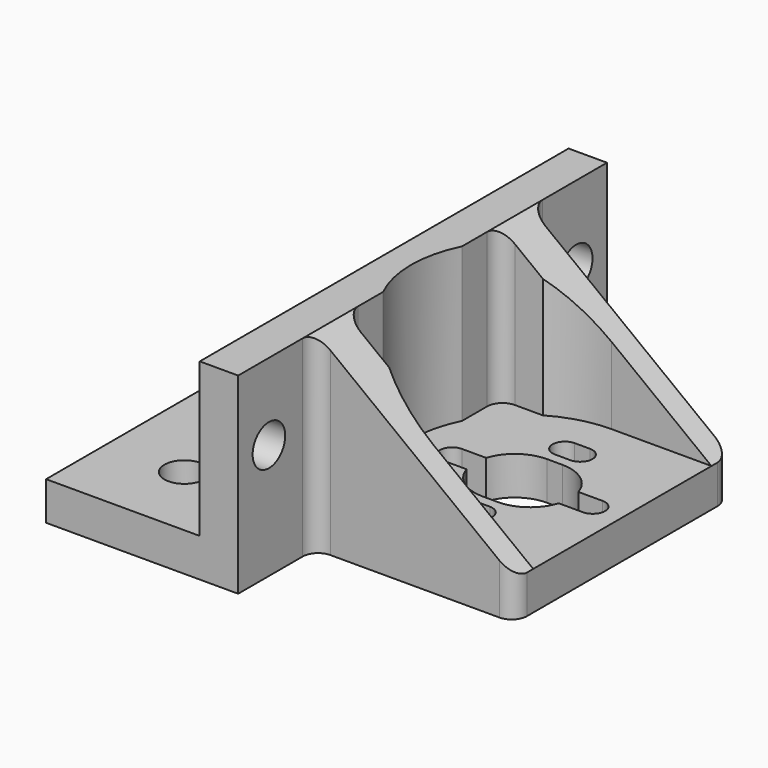
from build123d import *

# Parameters (mm, degrees)
SKETCH_R          = 2.6
PAD_DEPTH         = 20
PAD_DEPTH_BACK    = 5
SKETCH002_W       = 33.294622
SKETCH002_H       = 24.26609
POCKET001_DEPTH   = 12.5
SKETCH003_R       = 2.65
POCKET002_DEPTH   = 38.001
POCKET003_DEPTH   = 20.001
SKETCH001_W       = 20
SKETCH001_H       = 20
POCKET_DEPTH      = 30.001
POCKET_DEPTH_BACK = -30.001
FILLET_R          = 2


with BuildPart() as part:
    # Sketch → Pad (new body, two sides)
    with BuildSketch(Plane.XY) as pad_sk:
        Polygon((-13, 17.5), (13, 17.5), (13, -17.5), (-13, -17.5), (-13, -30), (-38, -30), (-38, 30), (-13, 30), align=None)
        with Locations((-28, 20)):
            Circle(SKETCH_R, mode=Mode.SUBTRACT)
        with Locations((-28, -20)):
            Circle(SKETCH_R, mode=Mode.SUBTRACT)
        with BuildLine():
            Line((-1, -5.25), (1, -5.25))
            ThreePointArc((1, -5.25), (4.095359, -4.24043), (6.00025, -1.6))
            Line((6.00025, -1.6), (9.15, -1.6))
            ThreePointArc((9.15, -1.6), (10.75, 0), (9.15, 1.6))
            Line((6.00025, 1.6), (9.15, 1.6))
            ThreePointArc((6.00025, 1.6), (4.095359, 4.24043), (1, 5.25))
            Line((-1, 5.25), (1, 5.25))
            ThreePointArc((-1, 5.25), (-4.095359, 4.24043), (-6.00025, 1.6))
            Line((-9.15, 1.6), (-6.00025, 1.6))
            ThreePointArc((-9.15, 1.6), (-10.75, 0), (-9.15, -1.6))
            Line((-9.15, -1.6), (-6.00025, -1.6))
            ThreePointArc((-6.00025, -1.6), (-4.095359, -4.24043), (-1, -5.25))
        make_face(mode=Mode.SUBTRACT)
        with BuildLine():
            ThreePointArc((-1, 9.75), (-2.6, 8.15), (-1, 6.55))
            Line((-1, 6.55), (1, 6.55))
            ThreePointArc((1, 6.55), (2.6, 8.15), (1, 9.75))
            Line((-1, 9.75), (1, 9.75))
        make_face(mode=Mode.SUBTRACT)
        with BuildLine():
            ThreePointArc((-1, -6.55), (-2.6, -8.15), (-1, -9.75))
            Line((-1, -9.75), (1, -9.75))
            ThreePointArc((1, -9.75), (2.6, -8.15), (1, -6.55))
            Line((-1, -6.55), (1, -6.55))
        make_face(mode=Mode.SUBTRACT)
    extrude(amount=PAD_DEPTH)
    extrude(pad_sk.sketch, amount=-PAD_DEPTH_BACK)

    # Sketch002 → Pocket001 (cut, symmetric)
    with BuildSketch(Plane.XZ):
        with Locations((3.647311, 12.133045)):
            Rectangle(SKETCH002_W, SKETCH002_H)
    extrude(amount=POCKET001_DEPTH, both=True, mode=Mode.SUBTRACT)

    # Sketch003 → Pocket002 (cut, through all)
    with BuildSketch(Plane.YZ):
        with Locations((-25, 10)):
            Circle(SKETCH003_R)
        with Locations((25, 10)):
            Circle(SKETCH003_R)
    extrude(amount=-POCKET002_DEPTH, mode=Mode.SUBTRACT)

    # Sketch004 → Pocket003 (cut, through all)
    with BuildSketch(Plane.XY):
        with BuildLine():
            ThreePointArc((0, 14.5), (-14.5, 0), (0, -14.5))
            Line((29.411848, -14.5), (0, -14.5))
            Line((29.411848, 14.5), (29.411848, -14.5))
            Line((0, 14.5), (29.411848, 14.5))
        make_face()
    extrude(amount=POCKET003_DEPTH, mode=Mode.SUBTRACT)

    # Sketch001 → Pocket (cut, two sides)
    with BuildSketch(Plane.XZ) as pocket_sk:
        with Locations((-28, 10)):
            Rectangle(SKETCH001_W, SKETCH001_H)
        Polygon((-13, 20), (13, 20), (13, 0), align=None)
    extrude(amount=-POCKET_DEPTH, mode=Mode.SUBTRACT)
    extrude(pocket_sk.sketch, amount=-POCKET_DEPTH_BACK, mode=Mode.SUBTRACT)

    # Fillet
    fillet_edges = [part.edges().sort_by_distance(p)[0] for p in [
        (-13, -17.5, 7.5),
        (13, -17.5, -2.5),
        (13, 17.5, -2.5),
        (-13, 17.5, 7.5),
        (-13, 12.5, 10),
        (-13, -12.5, 10),
    ]]
    fillet(fillet_edges, radius=FILLET_R)


solid = part.part
